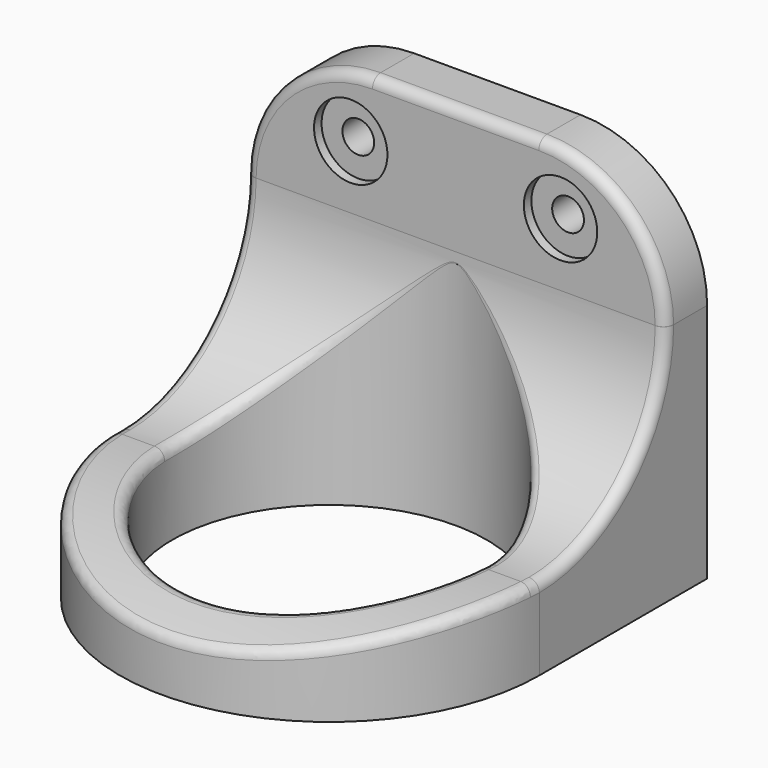
from build123d import *

# Parameters (mm, degrees)
F0_R     = 19.05
F1_DEPTH = 6.35
F2_R     = 19.05
F3_DEPTH = 38.1
F5_DEPTH = 34.29
F6_R     = 15.3302561211
F7_R     = 4.4448200647
F7_R_2   = 1.9228629243
F8_DEPTH = 1.143
F9_DEPTH = 25.4
F10_R    = 1.2420080366
F11_R    = 1.2446


with BuildPart() as f1:
    # F0 (on Top) → F1 (new body)
    with BuildSketch(Plane.XY):
        with BuildLine():
            Line((-25.4, 25.4), (-25.4, 0))
            ThreePointArc((-25.4, 0), (0, -25.4), (25.4, 0))
            Line((25.4, 0), (25.4, 25.4))
            Line((25.4, 25.4), (0, 25.4))
            Line((0, 25.4), (-25.4, 25.4))
        make_face()
        Circle(F0_R, mode=Mode.SUBTRACT)
    extrude(amount=F1_DEPTH)

    # F2 (on face) → F3 (join)
    with BuildSketch(Plane.XY.offset(6.35)):
        with BuildLine():
            Line((-25.4, 25.4), (-25.4, 0))
            ThreePointArc((-25.4, 0), (0, -25.4), (25.4, 0))
            Line((25.4, 0), (25.4, 25.4))
            Line((25.4, 25.4), (0, 25.4))
            Line((0, 25.4), (-25.4, 25.4))
        make_face()
        Circle(F2_R, mode=Mode.SUBTRACT)
    extrude(amount=F3_DEPTH)

    # F4 (on Right) → F5 (cut, symmetric)
    with BuildSketch(Plane.YZ):
        with BuildLine():
            ThreePointArc((0, 10.0525800794), (-0.604453929, 10.0743585977), (-1.209073457, 10.090914034))
            ThreePointArc((-1.209073457, 10.090914034), (-0.6048404989, 10.0621659752), (0, 10.0525800794))
        make_face()
        with BuildLine():
            ThreePointArc((-25.4105292261, 6.3655180857), (-13.4739449288, 9.2945493631), (-1.209073457, 10.090914034))
            ThreePointArc((-1.209073457, 10.090914034), (-0.604453929, 10.0743585977), (0, 10.0525800794))
            ThreePointArc((0, 10.0525800794), (13.4962495592, 15.642909688), (19.0865791678, 29.1391592473))
            Line((19.0865791678, 29.1391592473), (19.0865791678, 45.4362109303))
            Line((19.0865791678, 45.4362109303), (-26.2099858373, 45.4362109303))
            Line((-26.2099858373, 45.4362109303), (-26.2099858373, 6.3655180857))
            Line((-26.2099858373, 6.3655180857), (-25.4105292261, 6.3655180857))
        make_face()
    extrude(amount=F5_DEPTH, both=True, mode=Mode.SUBTRACT)

    # F6
    f6_edges = [f1.edges().sort_by_distance(p)[0] for p in [
        (-25.4, 22.24329, 44.45),
        (25.4, 22.24329, 44.45),
    ]]
    fillet(f6_edges, radius=F6_R)

    # F7 (on face) → F8 (cut)
    with BuildSketch(Plane.XZ.offset(-19.0865791678)):
        with Locations((-12.6999938527, 36.7945796236)):
            Circle(F7_R)
        with Locations((-12.6999938527, 36.7945796236)):
            Circle(F7_R_2, mode=Mode.SUBTRACT)
        with Locations((12.6999938527, 36.7945796236)):
            Circle(F7_R)
        with Locations((12.6999938527, 36.7945796236)):
            Circle(F7_R_2, mode=Mode.SUBTRACT)
    extrude(amount=-F8_DEPTH, mode=Mode.SUBTRACT)

    # F9 (cut): faces of the model
    f9_faces = [f1.faces().sort_by_distance(p)[0] for p in [
        (-12.6999938527, 19.0865791678, 36.7945796236),
        (12.6999938527, 19.0865791678, 36.7945796236),
    ]]
    extrude(f9_faces, amount=-F9_DEPTH, mode=Mode.SUBTRACT)

    # F10
    f10_edges = [f1.edges().sort_by_distance(p)[0] for p in [
        (19.040386, -0.605145, 10.062176),
        (-0.584948, 19.041017, 27.821142),
        (0, -19.05, 8.202921),
    ]]
    fillet(f10_edges, radius=F10_R)

    # F11
    f11_edges = [f1.edges().sort_by_distance(p)[0] for p in [
        (0, -25.4, 6.369106),
        (25.4, 13.489383, 15.636047),
        (-25.4, 13.489383, 15.636047),
    ]]
    fillet(f11_edges, radius=F11_R)


solid = f1.part
